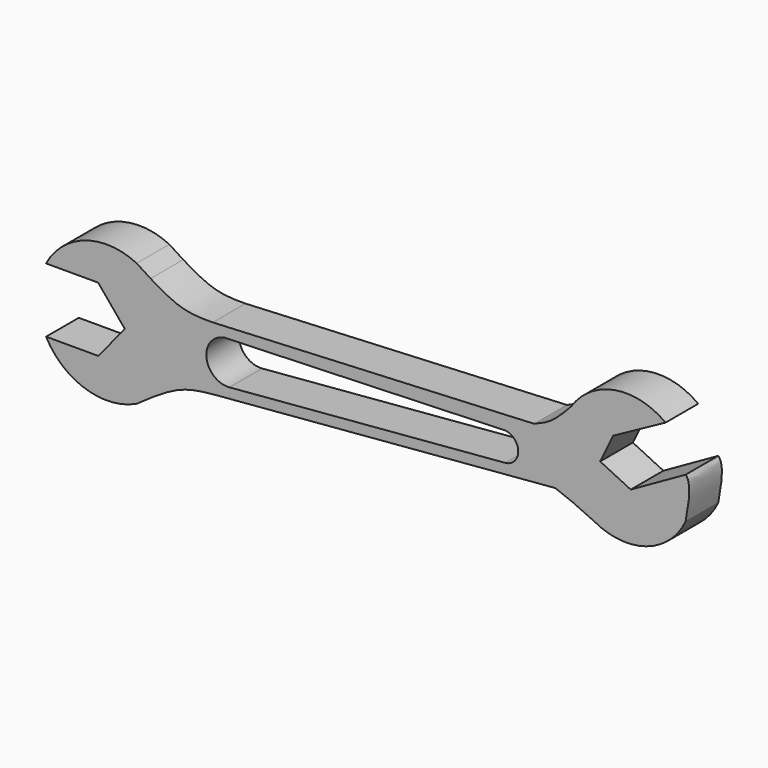
from build123d import *

# Parameters (mm, degrees)
F1_DEPTH = 20
F3_DEPTH = 25


with BuildPart() as f1:
    # F0 (on Front) → F1 (new body)
    with BuildSketch(Plane.XZ):
        with BuildLine():
            ThreePointArc((-70.8077147964, 30.2405108172), (-95.9037330878, 31.9319764651), (-115.1548899652, 15.743580961))
            Line((-115.1548899652, 15.743580961), (-89.651870853, 15.743580961))
            Line((-89.651870853, 15.743580961), (-76.5815686477, 0))
            Line((-76.5815686477, 0), (-89.651870853, -15.8164047439))
            Line((-89.651870853, -15.8164047439), (-115.1548899652, -15.8164047439))
            ThreePointArc((-115.1548899652, -15.8164047439), (-95.9037330878, -32.004800248), (-70.8077147964, -30.3133346001))
            add(Edge.make_bspline(
                [(-70.8077147964, -30.3133346001), (-67.9776331428, -28.3188076357), (-65.1475514892, -26.3242806714), (-62.3437084615, -24.4726673339)],
                knots=[0, 0, 0, 0, 0.2131370332, 0.2131370332, 0.2131370332, 0.2131370332], degree=3))
            ThreePointArc((-62.3437084615, -24.4726673339), (-51.8384971963, 1.0713241638), (-64.0026305705, 25.8682760858))
            add(Edge.make_bspline(
                [(-70.8077147964, 30.2405108172), (-68.5332348798, 28.7580949613), (-66.2595280087, 27.2741353036), (-64.0026305705, 25.8682760858)],
                knots=[0, 0, 0, 0, 0.1709511101, 0.1709511101, 0.1709511101, 0.1709511101], degree=3))
        make_face()
        with BuildLine():
            add(Edge.make_bspline(
                [(-64.0026305705, 25.8682760858), (-58.9255885158, 22.7057015484), (-48.1638642714, 16.7398518886), (-38.6459203889, 16.8245958253), (-33.5450051656, 16.8663300499)],
                knots=[0.1709511101, 0.1709511101, 0.1709511101, 0.1709511101, 0.5555170901, 1, 1, 1, 1], degree=3))
            ThreePointArc((-64.0026305705, 25.8682760858), (-51.8384971963, 1.0713241638), (-62.3437084615, -24.4726673339))
            add(Edge.make_bspline(
                [(-62.3437084615, -24.4726673339), (-57.8628479211, -21.5135783057), (-47.666378416, -15.5209427796), (-38.3990456985, -14.5890260797), (-33.1433561571, -14.0605174999)],
                knots=[0.2131370332, 0.2131370332, 0.2131370332, 0.2131370332, 0.5537542903, 1, 1, 1, 1], degree=3))
            Line((-33.1433561571, -14.0605174999), (134.1031342745, 0))
            add(Edge.make_bspline(
                [(134.1031342745, 0), (136.4122513766, -0.8395789588), (141.6651545041, -2.7950405317), (149.0737127416, -6.176651314), (153.1964652334, -8.1532607781)],
                knots=[0, 0, 0, 0, 0.4380896937, 1, 1, 1, 1], degree=3))
            ThreePointArc((153.1964652334, -8.1532607781), (137.5476966486, 12.3071742614), (141.9179672699, 37.6924868442))
            add(Edge.make_bspline(
                [(123.8123252988, 24.3332516402), (126.5566528115, 25.4190509754), (132.6285556754, 27.8395051742), (138.6442769425, 34.1864593632), (141.9179672699, 37.6924868442)],
                knots=[0, 0, 0, 0, 0.4510321202, 1, 1, 1, 1], degree=3))
            Line((123.8123252988, 24.3332516402), (-33.5450051656, 16.8663300499))
        make_face()
        with BuildLine():
            ThreePointArc((188.109567585, 45.7443760516), (163.2734752286, 51.7020364887), (141.9179672699, 37.6924868442))
            ThreePointArc((141.9179672699, 37.6924868442), (137.5476966486, 12.3071742614), (153.1964652334, -8.1532607781))
            ThreePointArc((153.1964652334, -8.1532607781), (178.7160069517, -10.6233567386), (197.943063255, 6.3374418711))
            add(Edge.make_bspline(
                [(197.943063255, 6.3374418711), (199.4826329775, 14.8891655682), (201.0222027001, 23.4408892653), (197.943063255, 26.5200287104)],
                knots=[0, 0, 0, 0, 0.5423075145, 0.5423075145, 0.5423075145, 0.5423075145], degree=3))
            Line((197.943063255, 26.5200287104), (171.0705587274, 11.3484414967))
            Line((171.0705587274, 11.3484414967), (156.1017632484, 18.6190064996))
            Line((156.1017632484, 18.6190064996), (162.4978333712, 31.7873731256))
            Line((162.4978333712, 31.7873731256), (188.109567585, 45.7443760516))
        make_face()
    extrude(amount=F1_DEPTH)

    # F2 (on face) → F3 (cut)
    with BuildSketch(Plane.XZ.offset(20)):
        with BuildLine():
            Line((109.5580235124, 16.8663300499), (-25.4420973361, 12.2297834605))
            ThreePointArc((-25.4420973361, 12.2297834605), (-36.6994938897, 1.8790904433), (-25.4420973361, -8.471602574))
            Line((-25.4420973361, -8.471602574), (109.5580235124, 2.8779423807))
            ThreePointArc((109.5580235124, 2.8779423807), (115.9888845858, 9.8721362153), (109.5580235124, 16.8663300499))
        make_face()
    extrude(amount=-F3_DEPTH, mode=Mode.SUBTRACT)


solid = f1.part
